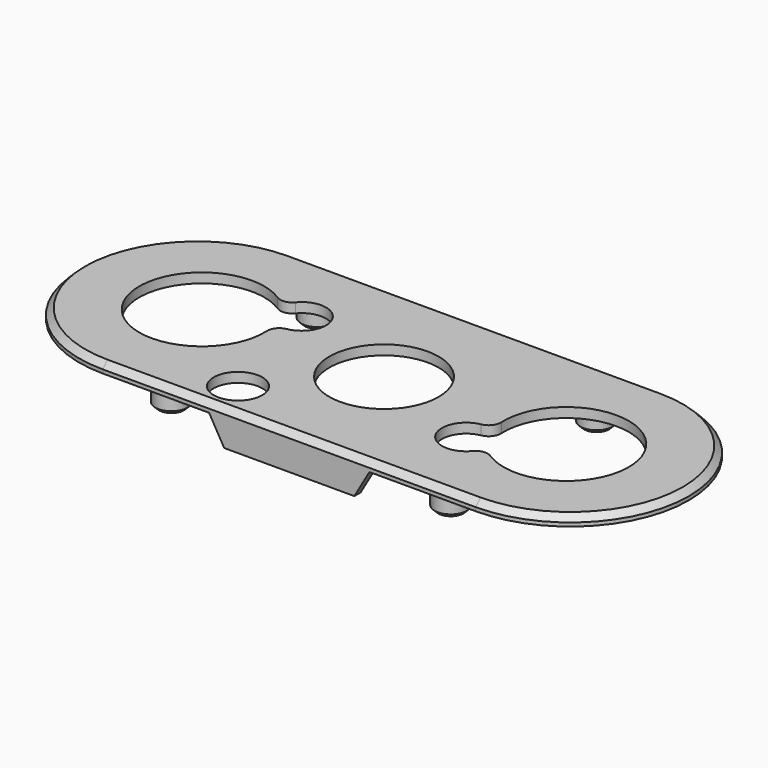
from build123d import *

# Parameters (mm, degrees)
SKETCH014_R     = 9
SKETCH014_R_2   = 4
PAD003_DEPTH    = 1.6
SKETCH015_W     = 6.5
SKETCH015_H     = 6
POCKET007_DEPTH = 1.2
POCKET007_TAPER = 40
SKETCH016_R     = 2.65
PAD004_DEPTH    = 4
SKETCH017_R     = 1.25
HOLE001_DEPTH   = 4.2
HOLE001_TIPS_R  = 1.25
PAD005_DEPTH    = 1.3
PAD006_DEPTH    = 6.5
CHAMFER003_SIZE = 0.6
CHAMFER004_SIZE = 1


with BuildPart() as part:
    # Sketch014 → Pad003 (new body)
    with BuildSketch(Plane.XY):
        with BuildLine():
            Line((-30.7, -19.5), (30.7, -19.5))
            ThreePointArc((30.7, -19.5), (50.2, 0), (30.7, 19.5))
            Line((30.7, 19.5), (-30.7, 19.5))
            ThreePointArc((-30.7, 19.5), (-50.2, 0), (-30.7, -19.5))
        make_face()
        Circle(SKETCH014_R, mode=Mode.SUBTRACT)
        with Locations((-13, -13.8)):
            Circle(SKETCH014_R_2, mode=Mode.SUBTRACT)
        with BuildLine():
            ThreePointArc((-24.429009, 8.663375), (-38.920062, -5.15), (-19.711802, 0.492933))
            ThreePointArc((-18.056619, 2.559098), (-19.275002, 1.839074), (-19.711802, 0.492933))
            ThreePointArc((-18.056619, 2.559098), (-15.277568, 8.5), (-21.812065, 9.063722))
            ThreePointArc((-24.429009, 8.663375), (-23.044816, 8.368584), (-21.812065, 9.063722))
        make_face(mode=Mode.SUBTRACT)
        with BuildLine():
            ThreePointArc((24.429009, -8.663375), (38.920062, 5.15), (19.711802, -0.492933))
            ThreePointArc((18.056619, -2.559098), (19.275002, -1.839074), (19.711802, -0.492933))
            ThreePointArc((18.056619, -2.559098), (15.277568, -8.5), (21.812065, -9.063722))
            ThreePointArc((24.429009, -8.663375), (23.044816, -8.368584), (21.812065, -9.063722))
        make_face(mode=Mode.SUBTRACT)
    extrude(amount=PAD003_DEPTH)

    # Sketch015 → Pocket007 (cut)
    with BuildSketch(Plane.XY):
        with Locations((13.25, -14.2)):
            Rectangle(SKETCH015_W, SKETCH015_H)
    extrude(amount=POCKET007_DEPTH, taper=POCKET007_TAPER, mode=Mode.SUBTRACT)

    # Sketch016 → Pad004 (join)
    with BuildSketch(Plane.XY):
        with Locations((-23, 15)):
            Circle(SKETCH016_R)
        with Locations((23, 15)):
            Circle(SKETCH016_R)
        with Locations((23, -15)):
            Circle(SKETCH016_R)
        with Locations((-23, -15)):
            Circle(SKETCH016_R)
    extrude(amount=-PAD004_DEPTH)

    # Sketch017 → Hole001 (cut)
    with BuildSketch(Plane.XY.offset(-4)):
        with Locations((-23, 15)):
            Circle(SKETCH017_R)
        with Locations((23, 15)):
            Circle(SKETCH017_R)
        with Locations((23, -15)):
            Circle(SKETCH017_R)
        with Locations((-23, -15)):
            Circle(SKETCH017_R)
    extrude(amount=HOLE001_DEPTH, mode=Mode.SUBTRACT)

    # Hole001 tips → Hole001 tip 1 section 0
    with BuildSketch(Plane.XY.offset(0.2), mode=Mode.PRIVATE) as hole001_tip_1_s0:
        with Locations((-23, 15)):
            Circle(HOLE001_TIPS_R)
    loft([hole001_tip_1_s0.sketch, Vertex(-23, 15, 0.951076)], mode=Mode.SUBTRACT)

    # Hole001 tips → Hole001 tip 2 section 0
    with BuildSketch(Plane.XY.offset(0.2), mode=Mode.PRIVATE) as hole001_tip_2_s0:
        with Locations((23, 15)):
            Circle(HOLE001_TIPS_R)
    loft([hole001_tip_2_s0.sketch, Vertex(23, 15, 0.951076)], mode=Mode.SUBTRACT)

    # Hole001 tips → Hole001 tip 3 section 0
    with BuildSketch(Plane.XY.offset(0.2), mode=Mode.PRIVATE) as hole001_tip_3_s0:
        with Locations((23, -15)):
            Circle(HOLE001_TIPS_R)
    loft([hole001_tip_3_s0.sketch, Vertex(23, -15, 0.951076)], mode=Mode.SUBTRACT)

    # Hole001 tips → Hole001 tip 4 section 0
    with BuildSketch(Plane.XY.offset(0.2), mode=Mode.PRIVATE) as hole001_tip_4_s0:
        with Locations((-23, -15)):
            Circle(HOLE001_TIPS_R)
    loft([hole001_tip_4_s0.sketch, Vertex(-23, -15, 0.951076)], mode=Mode.SUBTRACT)

    # Sketch018 → Pad005 (join)
    with BuildSketch(Plane.XZ.offset(19.5)):
        Polygon((-13.2, 0), (-10.717394, -4.3), (10.717394, -4.3), (13.2, 0), align=None)
    extrude(amount=-PAD005_DEPTH)

    # Sketch019 → Pad006 (join, symmetric)
    with BuildSketch(Plane.YZ):
        Polygon((-18.2, -3), (-18.2, 0), (-15.2, 0), align=None)
    extrude(amount=PAD006_DEPTH, both=True)

    # Chamfer003
    chamfer003_edges = [part.edges().sort_by_distance(p)[0] for p in [
        (-25.65, -15, -4),
        (-25.65, 15, -4),
        (20.35, 15, -4),
        (20.35, -15, -4),
    ]]
    chamfer(chamfer003_edges, length=CHAMFER003_SIZE)

    # Chamfer004
    chamfer004_edges = [part.edges().sort_by_distance(p)[0] for p in [
        (-50.2, 0, 1.6),
    ]]
    chamfer(chamfer004_edges, length=CHAMFER004_SIZE)


solid = part.part
